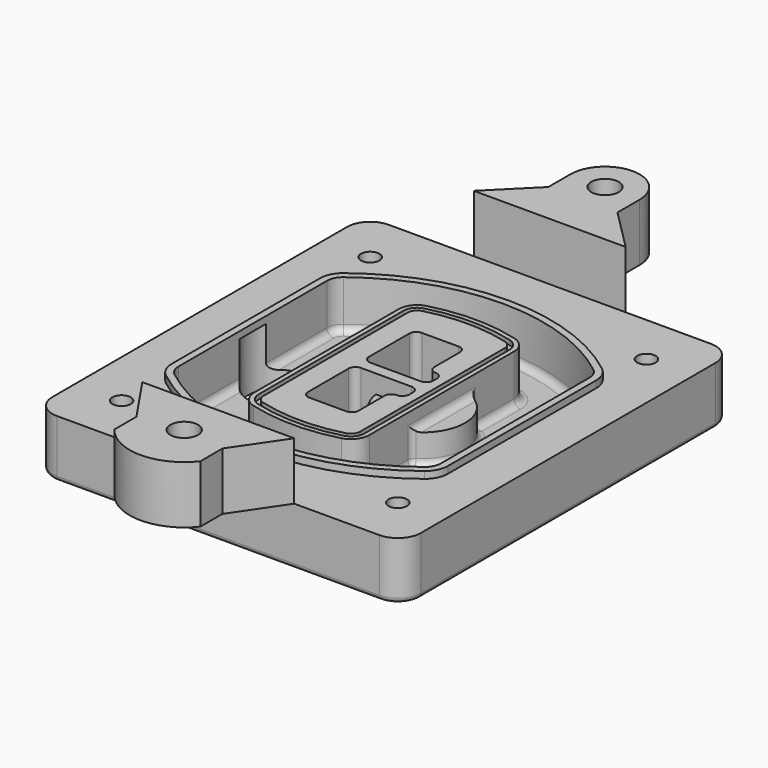
from build123d import *

# Parameters (mm, degrees)
F0_R      = 4
F1_DEPTH  = 25
F2_DEPTH  = 3
F3_DEPTH  = 18
F5_DEPTH  = 21
F6_DEPTH  = 2
F8_DEPTH  = 20
F9_DEPTH  = 16
F10_DEPTH = 25
F7_R      = 6
F7_R_2    = 4
F11_DEPTH = 6
F13_DEPTH = 9
F14_R     = 3
F15_R     = 2
F16_R     = 6
F17_DEPTH = 25


with BuildPart() as f1:
    # F0 (on Top) → F1 (new body)
    with BuildSketch(Plane.XY):
        with BuildLine():
            ThreePointArc((-80, -80), (-77.0710678119, -87.0710678119), (-70, -90))
            Line((-70, -90), (70, -90))
            ThreePointArc((70, -90), (77.0710678119, -87.0710678119), (80, -80))
            Line((80, -80), (80, 80))
            ThreePointArc((80, 80), (77.0710678119, 87.0710678119), (70, 90))
            Line((70, 90), (-70, 90))
            ThreePointArc((-70, 90), (-77.0710678119, 87.0710678119), (-80, 80))
            Line((-80, 80), (-80, -80))
        make_face()
        with Locations((-60, -67.5)):
            Circle(F0_R, mode=Mode.SUBTRACT)
        with Locations((60, -67.5)):
            Circle(F0_R, mode=Mode.SUBTRACT)
        with Locations((-60, 67.5)):
            Circle(F0_R, mode=Mode.SUBTRACT)
        with BuildLine():
            ThreePointArc((-64, 40.2934422872), (-62.5820384798, 46.4328484224), (-58.6153846154, 51.3286200352))
            ThreePointArc((-58.6153846154, 51.3286200352), (0, 71.5), (58.6153846154, 51.3286200352))
            ThreePointArc((58.6153846154, 51.3286200352), (62.5820384798, 46.4328484224), (64, 40.2934422872))
            Line((64, 40.2934422872), (64, -40.2934422872))
            ThreePointArc((64, -40.2934422872), (62.5820384798, -46.4328484224), (58.6153846154, -51.3286200352))
            ThreePointArc((58.6153846154, -51.3286200352), (0, -71.5), (-58.6153846154, -51.3286200352))
            ThreePointArc((-58.6153846154, -51.3286200352), (-62.5820384798, -46.4328484224), (-64, -40.2934422872))
            Line((-64, -40.2934422872), (-64, 40.2934422872))
        make_face(mode=Mode.SUBTRACT)
        with Locations((60, 67.5)):
            Circle(F0_R, mode=Mode.SUBTRACT)
        with BuildLine():
            ThreePointArc((58.6153846154, 51.3286200352), (0, 71.5), (-58.6153846154, 51.3286200352))
            ThreePointArc((-58.6153846154, 51.3286200352), (-62.5820384798, 46.4328484224), (-64, 40.2934422872))
            Line((-64, 40.2934422872), (-64, -40.2934422872))
            ThreePointArc((-64, -40.2934422872), (-62.5820384798, -46.4328484224), (-58.6153846154, -51.3286200352))
            ThreePointArc((-58.6153846154, -51.3286200352), (0, -71.5), (58.6153846154, -51.3286200352))
            ThreePointArc((58.6153846154, -51.3286200352), (62.5820384798, -46.4328484224), (64, -40.2934422872))
            Line((64, -40.2934422872), (64, 40.2934422872))
            ThreePointArc((64, 40.2934422872), (62.5820384798, 46.4328484224), (58.6153846154, 51.3286200352))
        make_face()
        with BuildLine():
            Line((-60, -40.2934422872), (-60, 40.2934422872))
            ThreePointArc((-60, 40.2934422872), (-58.9871703427, 44.6787323838), (-56.1538461538, 48.1757121072))
            ThreePointArc((-56.1538461538, 48.1757121072), (0, 67.5), (56.1538461538, 48.1757121072))
            ThreePointArc((56.1538461538, 48.1757121072), (58.9871703427, 44.6787323838), (60, 40.2934422872))
            Line((60, 40.2934422872), (60, -40.2934422872))
            ThreePointArc((60, -40.2934422872), (58.9871703427, -44.6787323838), (56.1538461538, -48.1757121072))
            ThreePointArc((56.1538461538, -48.1757121072), (0, -67.5), (-56.1538461538, -48.1757121072))
            ThreePointArc((-56.1538461538, -48.1757121072), (-58.9871703427, -44.6787323838), (-60, -40.2934422872))
        make_face(mode=Mode.SUBTRACT)
        with BuildLine():
            ThreePointArc((-56.1538461538, 48.1757121072), (-58.9871703427, 44.6787323838), (-60, 40.2934422872))
            Line((-60, 40.2934422872), (-60, -40.2934422872))
            ThreePointArc((-60, -40.2934422872), (-58.9871703427, -44.6787323838), (-56.1538461538, -48.1757121072))
            ThreePointArc((-56.1538461538, -48.1757121072), (0, -67.5), (56.1538461538, -48.1757121072))
            ThreePointArc((56.1538461538, -48.1757121072), (58.9871703427, -44.6787323838), (60, -40.2934422872))
            Line((60, -40.2934422872), (60, 40.2934422872))
            ThreePointArc((60, 40.2934422872), (58.9871703427, 44.6787323838), (56.1538461538, 48.1757121072))
            ThreePointArc((56.1538461538, 48.1757121072), (0, 67.5), (-56.1538461538, 48.1757121072))
        make_face()
        with BuildLine():
            ThreePointArc((54.3076923077, 45.8110311612), (56.2910192399, 43.3631453548), (57, 40.2934422872))
            Line((57, 40.2934422872), (57, -40.2934422872))
            ThreePointArc((57, -40.2934422872), (56.2910192399, -43.3631453548), (54.3076923077, -45.8110311612))
            ThreePointArc((54.3076923077, -45.8110311612), (0, -64.5), (-54.3076923077, -45.8110311612))
            ThreePointArc((-54.3076923077, -45.8110311612), (-56.2910192399, -43.3631453548), (-57, -40.2934422872))
            Line((-57, -40.2934422872), (-57, 40.2934422872))
            ThreePointArc((-57, 40.2934422872), (-56.2910192399, 43.3631453548), (-54.3076923077, 45.8110311612))
            ThreePointArc((-54.3076923077, 45.8110311612), (0, 64.5), (54.3076923077, 45.8110311612))
        make_face(mode=Mode.SUBTRACT)
        with BuildLine():
            Line((57, -40.2934422872), (57, 40.2934422872))
            ThreePointArc((57, 40.2934422872), (56.2910192399, 43.3631453548), (54.3076923077, 45.8110311612))
            ThreePointArc((54.3076923077, 45.8110311612), (0, 64.5), (-54.3076923077, 45.8110311612))
            ThreePointArc((-54.3076923077, 45.8110311612), (-56.2910192399, 43.3631453548), (-57, 40.2934422872))
            Line((-57, 40.2934422872), (-57, -40.2934422872))
            ThreePointArc((-57, -40.2934422872), (-56.2910192399, -43.3631453548), (-54.3076923077, -45.8110311612))
            ThreePointArc((-54.3076923077, -45.8110311612), (0, -64.5), (54.3076923077, -45.8110311612))
            ThreePointArc((54.3076923077, -45.8110311612), (56.2910192399, -43.3631453548), (57, -40.2934422872))
        make_face()
    extrude(amount=-F1_DEPTH)

    # F0 (on Top) → F2 (join)
    with BuildSketch(Plane.XY):
        with BuildLine():
            ThreePointArc((-56.1538461538, 48.1757121072), (-58.9871703427, 44.6787323838), (-60, 40.2934422872))
            Line((-60, 40.2934422872), (-60, -40.2934422872))
            ThreePointArc((-60, -40.2934422872), (-58.9871703427, -44.6787323838), (-56.1538461538, -48.1757121072))
            ThreePointArc((-56.1538461538, -48.1757121072), (0, -67.5), (56.1538461538, -48.1757121072))
            ThreePointArc((56.1538461538, -48.1757121072), (58.9871703427, -44.6787323838), (60, -40.2934422872))
            Line((60, -40.2934422872), (60, 40.2934422872))
            ThreePointArc((60, 40.2934422872), (58.9871703427, 44.6787323838), (56.1538461538, 48.1757121072))
            ThreePointArc((56.1538461538, 48.1757121072), (0, 67.5), (-56.1538461538, 48.1757121072))
        make_face()
        with BuildLine():
            ThreePointArc((54.3076923077, 45.8110311612), (56.2910192399, 43.3631453548), (57, 40.2934422872))
            Line((57, 40.2934422872), (57, -40.2934422872))
            ThreePointArc((57, -40.2934422872), (56.2910192399, -43.3631453548), (54.3076923077, -45.8110311612))
            ThreePointArc((54.3076923077, -45.8110311612), (0, -64.5), (-54.3076923077, -45.8110311612))
            ThreePointArc((-54.3076923077, -45.8110311612), (-56.2910192399, -43.3631453548), (-57, -40.2934422872))
            Line((-57, -40.2934422872), (-57, 40.2934422872))
            ThreePointArc((-57, 40.2934422872), (-56.2910192399, 43.3631453548), (-54.3076923077, 45.8110311612))
            ThreePointArc((-54.3076923077, 45.8110311612), (0, 64.5), (54.3076923077, 45.8110311612))
        make_face(mode=Mode.SUBTRACT)
    extrude(amount=F2_DEPTH)

    # F0 (on Top) → F3 (cut)
    with BuildSketch(Plane.XY):
        with BuildLine():
            Line((57, -40.2934422872), (57, 40.2934422872))
            ThreePointArc((57, 40.2934422872), (56.2910192399, 43.3631453548), (54.3076923077, 45.8110311612))
            ThreePointArc((54.3076923077, 45.8110311612), (0, 64.5), (-54.3076923077, 45.8110311612))
            ThreePointArc((-54.3076923077, 45.8110311612), (-56.2910192399, 43.3631453548), (-57, 40.2934422872))
            Line((-57, 40.2934422872), (-57, -40.2934422872))
            ThreePointArc((-57, -40.2934422872), (-56.2910192399, -43.3631453548), (-54.3076923077, -45.8110311612))
            ThreePointArc((-54.3076923077, -45.8110311612), (0, -64.5), (54.3076923077, -45.8110311612))
            ThreePointArc((54.3076923077, -45.8110311612), (56.2910192399, -43.3631453548), (57, -40.2934422872))
        make_face()
    extrude(amount=-F3_DEPTH, mode=Mode.SUBTRACT)

    # F4 (on face) → F5 (join, through all)
    with BuildSketch(Plane.XY.offset(3)):
        with BuildLine():
            ThreePointArc((-25, -39.2465276821), (-23.3511545998, -44.1109737193), (-19.0842911877, -46.9702398883))
            ThreePointArc((-19.0842911877, -46.9702398883), (0, -49.5), (19.0842911877, -46.9702398883))
            ThreePointArc((19.0842911877, -46.9702398883), (23.3511545998, -44.1109737193), (25, -39.2465276821))
            Line((25, -39.2465276821), (25, 39.2465276821))
            ThreePointArc((25, 39.2465276821), (23.3511545998, 44.1109737193), (19.0842911877, 46.9702398883))
            ThreePointArc((19.0842911877, 46.9702398883), (0, 49.5), (-19.0842911877, 46.9702398883))
            ThreePointArc((-19.0842911877, 46.9702398883), (-23.3511545998, 44.1109737193), (-25, 39.2465276821))
            Line((-25, 39.2465276821), (-25, -39.2465276821))
        make_face()
        with BuildLine():
            ThreePointArc((18.5632183908, 45.0393118368), (21.7633659499, 42.89486221), (23, 39.2465276821))
            Line((23, 39.2465276821), (23, -39.2465276821))
            ThreePointArc((23, -39.2465276821), (21.7633659499, -42.89486221), (18.5632183908, -45.0393118368))
            ThreePointArc((18.5632183908, -45.0393118368), (0, -47.5), (-18.5632183908, -45.0393118368))
            ThreePointArc((-18.5632183908, -45.0393118368), (-21.7633659499, -42.89486221), (-23, -39.2465276821))
            Line((-23, -39.2465276821), (-23, 39.2465276821))
            ThreePointArc((-23, 39.2465276821), (-21.7633659499, 42.89486221), (-18.5632183908, 45.0393118368))
            ThreePointArc((-18.5632183908, 45.0393118368), (0, 47.5), (18.5632183908, 45.0393118368))
        make_face(mode=Mode.SUBTRACT)
        with BuildLine():
            Line((23, -39.2465276821), (23, 39.2465276821))
            ThreePointArc((23, 39.2465276821), (21.7633659499, 42.89486221), (18.5632183908, 45.0393118368))
            ThreePointArc((18.5632183908, 45.0393118368), (0, 47.5), (-18.5632183908, 45.0393118368))
            ThreePointArc((-18.5632183908, 45.0393118368), (-21.7633659499, 42.89486221), (-23, 39.2465276821))
            Line((-23, 39.2465276821), (-23, -39.2465276821))
            ThreePointArc((-23, -39.2465276821), (-21.7633659499, -42.89486221), (-18.5632183908, -45.0393118368))
            ThreePointArc((-18.5632183908, -45.0393118368), (0, -47.5), (18.5632183908, -45.0393118368))
            ThreePointArc((18.5632183908, -45.0393118368), (21.7633659499, -42.89486221), (23, -39.2465276821))
        make_face()
        with BuildLine():
            ThreePointArc((18.0421455939, 43.1083837852), (20.1755772999, 41.6787507007), (21, 39.2465276821))
            Line((21, 39.2465276821), (21, -39.2465276821))
            ThreePointArc((21, -39.2465276821), (20.1755772999, -41.6787507007), (18.0421455939, -43.1083837852))
            ThreePointArc((18.0421455939, -43.1083837852), (0, -45.5), (-18.0421455939, -43.1083837852))
            ThreePointArc((-18.0421455939, -43.1083837852), (-20.1755772999, -41.6787507007), (-21, -39.2465276821))
            Line((-21, -39.2465276821), (-21, 39.2465276821))
            ThreePointArc((-21, 39.2465276821), (-20.1755772999, 41.6787507007), (-18.0421455939, 43.1083837852))
            ThreePointArc((-18.0421455939, 43.1083837852), (0, 45.5), (18.0421455939, 43.1083837852))
        make_face(mode=Mode.SUBTRACT)
        with BuildLine():
            Line((21, -39.2465276821), (21, 39.2465276821))
            ThreePointArc((21, 39.2465276821), (20.1755772999, 41.6787507007), (18.0421455939, 43.1083837852))
            ThreePointArc((18.0421455939, 43.1083837852), (0, 45.5), (-18.0421455939, 43.1083837852))
            ThreePointArc((-18.0421455939, 43.1083837852), (-20.1755772999, 41.6787507007), (-21, 39.2465276821))
            Line((-21, 39.2465276821), (-21, -39.2465276821))
            ThreePointArc((-21, -39.2465276821), (-20.1755772999, -41.6787507007), (-18.0421455939, -43.1083837852))
            ThreePointArc((-18.0421455939, -43.1083837852), (0, -45.5), (18.0421455939, -43.1083837852))
            ThreePointArc((18.0421455939, -43.1083837852), (20.1755772999, -41.6787507007), (21, -39.2465276821))
        make_face()
        with BuildLine():
            Line((-8, -2.5), (14, -2.5))
            ThreePointArc((14, -2.5), (16.1213203436, -3.3786796564), (17, -5.5))
            Line((17, -5.5), (17, -7.5))
            ThreePointArc((17, -7.5), (16.1213203436, -9.6213203436), (14, -10.5))
            ThreePointArc((14, -10.5), (11.8786796564, -11.3786796564), (11, -13.5))
            Line((11, -13.5), (11, -27.5))
            ThreePointArc((11, -27.5), (10.1213203436, -29.6213203436), (8, -30.5))
            Line((8, -30.5), (-8, -30.5))
            ThreePointArc((-8, -30.5), (-10.1213203436, -29.6213203436), (-11, -27.5))
            Line((-11, -27.5), (-11, -5.5))
            ThreePointArc((-11, -5.5), (-10.1213203436, -3.3786796564), (-8, -2.5))
        make_face(mode=Mode.SUBTRACT)
        with BuildLine():
            ThreePointArc((-8, 2.5), (-10.1213203436, 3.3786796564), (-11, 5.5))
            Line((-11, 5.5), (-11, 27.5))
            ThreePointArc((-11, 27.5), (-10.1213203436, 29.6213203436), (-8, 30.5))
            Line((-8, 30.5), (8, 30.5))
            ThreePointArc((8, 30.5), (10.1213203436, 29.6213203436), (11, 27.5))
            Line((11, 27.5), (11, 13.5))
            ThreePointArc((11, 13.5), (11.8786796564, 11.3786796564), (14, 10.5))
            ThreePointArc((14, 10.5), (16.1213203436, 9.6213203436), (17, 7.5))
            Line((17, 7.5), (17, 5.5))
            ThreePointArc((17, 5.5), (16.1213203436, 3.3786796564), (14, 2.5))
            Line((14, 2.5), (-8, 2.5))
        make_face(mode=Mode.SUBTRACT)
    extrude(amount=-F5_DEPTH)

    # F4 (on face) → F6 (cut)
    with BuildSketch(Plane.XY.offset(3)):
        with BuildLine():
            Line((23, -39.2465276821), (23, 39.2465276821))
            ThreePointArc((23, 39.2465276821), (21.7633659499, 42.89486221), (18.5632183908, 45.0393118368))
            ThreePointArc((18.5632183908, 45.0393118368), (0, 47.5), (-18.5632183908, 45.0393118368))
            ThreePointArc((-18.5632183908, 45.0393118368), (-21.7633659499, 42.89486221), (-23, 39.2465276821))
            Line((-23, 39.2465276821), (-23, -39.2465276821))
            ThreePointArc((-23, -39.2465276821), (-21.7633659499, -42.89486221), (-18.5632183908, -45.0393118368))
            ThreePointArc((-18.5632183908, -45.0393118368), (0, -47.5), (18.5632183908, -45.0393118368))
            ThreePointArc((18.5632183908, -45.0393118368), (21.7633659499, -42.89486221), (23, -39.2465276821))
        make_face()
        with BuildLine():
            ThreePointArc((18.0421455939, 43.1083837852), (20.1755772999, 41.6787507007), (21, 39.2465276821))
            Line((21, 39.2465276821), (21, -39.2465276821))
            ThreePointArc((21, -39.2465276821), (20.1755772999, -41.6787507007), (18.0421455939, -43.1083837852))
            ThreePointArc((18.0421455939, -43.1083837852), (0, -45.5), (-18.0421455939, -43.1083837852))
            ThreePointArc((-18.0421455939, -43.1083837852), (-20.1755772999, -41.6787507007), (-21, -39.2465276821))
            Line((-21, -39.2465276821), (-21, 39.2465276821))
            ThreePointArc((-21, 39.2465276821), (-20.1755772999, 41.6787507007), (-18.0421455939, 43.1083837852))
            ThreePointArc((-18.0421455939, 43.1083837852), (0, 45.5), (18.0421455939, 43.1083837852))
        make_face(mode=Mode.SUBTRACT)
    extrude(amount=-F6_DEPTH, mode=Mode.SUBTRACT)

    # F7 (on face) → F8 (join)
    with BuildSketch(Plane(origin=(0, 0, -25), x_dir=(1, 0, 0), z_dir=(0, 0, -1))):
        with BuildLine():
            ThreePointArc((3.28842436, 0), (16.7567035675, 13.4682792075), (30.224982775, 0))
            Line((30.224982775, 0), (35.224982775, 0))
            ThreePointArc((35.224982775, 0), (16.7567035675, 18.4682792075), (-1.71157564, 0))
            Line((-1.71157564, 0), (3.28842436, 0))
        make_face()
        with BuildLine():
            Line((3.28842436, 0), (30.224982775, 0))
            ThreePointArc((30.224982775, 0), (16.7567035675, 13.4682792075), (3.28842436, 0))
        make_face()
        with BuildLine():
            ThreePointArc((3.28842436, 0), (16.7567035675, -13.4682792075), (30.224982775, 0))
            Line((30.224982775, 0), (3.28842436, 0))
        make_face()
        with BuildLine():
            Line((35.224982775, 0), (30.224982775, 0))
            ThreePointArc((30.224982775, 0), (16.7567035675, -13.4682792075), (3.28842436, 0))
            Line((3.28842436, 0), (-1.71157564, 0))
            ThreePointArc((-1.71157564, 0), (16.7567035675, -18.4682792075), (35.224982775, 0))
        make_face()
    extrude(amount=-F8_DEPTH)

    # F7 (on face) → F9 (cut)
    with BuildSketch(Plane(origin=(0, 0, -25), x_dir=(1, 0, 0), z_dir=(0, 0, -1))):
        with BuildLine():
            Line((3.28842436, 0), (30.224982775, 0))
            ThreePointArc((30.224982775, 0), (16.7567035675, 13.4682792075), (3.28842436, 0))
        make_face()
        with BuildLine():
            ThreePointArc((3.28842436, 0), (16.7567035675, -13.4682792075), (30.224982775, 0))
            Line((30.224982775, 0), (3.28842436, 0))
        make_face()
    extrude(amount=-F9_DEPTH, mode=Mode.SUBTRACT)

    # F7 (on face) → F10 (cut)
    with BuildSketch(Plane(origin=(0, 0, -25), x_dir=(1, 0, 0), z_dir=(0, 0, -1))):
        with BuildLine():
            Line((-59.0318229325, 0), (-32.0952645175, 0))
            ThreePointArc((-32.0952645175, 0), (-45.563543725, 13.4682792075), (-59.0318229325, 0))
        make_face()
        with BuildLine():
            ThreePointArc((-59.0318229325, 0), (-45.563543725, -13.4682792075), (-32.0952645175, 0))
            Line((-32.0952645175, 0), (-59.0318229325, 0))
        make_face()
    extrude(amount=-F10_DEPTH, mode=Mode.SUBTRACT)

    # F7 (on face) → F11 (cut)
    with BuildSketch(Plane(origin=(0, 0, -25), x_dir=(1, 0, 0), z_dir=(0, 0, -1))):
        with Locations((60, -67.5)):
            Circle(F7_R)
        with Locations((60, -67.5)):
            Circle(F7_R_2, mode=Mode.SUBTRACT)
        with Locations((60, -67.5)):
            Circle(F7_R)
        with Locations((60, -67.5)):
            Circle(F7_R_2, mode=Mode.SUBTRACT)
        with Locations((-60, -67.5)):
            Circle(F7_R)
        with Locations((-60, -67.5)):
            Circle(F7_R_2, mode=Mode.SUBTRACT)
        with Locations((-60, -67.5)):
            Circle(F7_R)
        with Locations((-60, -67.5)):
            Circle(F7_R_2, mode=Mode.SUBTRACT)
        with Locations((-60, 67.5)):
            Circle(F7_R)
        with Locations((-60, 67.5)):
            Circle(F7_R_2, mode=Mode.SUBTRACT)
        with Locations((-60, 67.5)):
            Circle(F7_R)
        with Locations((-60, 67.5)):
            Circle(F7_R_2, mode=Mode.SUBTRACT)
        with Locations((60, 67.5)):
            Circle(F7_R)
        with Locations((60, 67.5)):
            Circle(F7_R_2, mode=Mode.SUBTRACT)
        with Locations((60, 67.5)):
            Circle(F7_R)
        with Locations((60, 67.5)):
            Circle(F7_R_2, mode=Mode.SUBTRACT)
    extrude(amount=-F11_DEPTH, mode=Mode.SUBTRACT)

    # F12 (on face) → F13 (cut, through all)
    with BuildSketch(Plane(origin=(0, 0, -9), x_dir=(1, 0, 0), z_dir=(0, 0, -1))):
        with BuildLine():
            Line((11, 13.5), (11, 17.5481537753))
            ThreePointArc((11, 17.5481537753), (2.5696536419, 11.8239143813), (-1.5415842455, 2.5))
            Line((-1.5415842455, 2.5), (3.5224848595, 2.5))
            ThreePointArc((3.5224848595, 2.5), (6.1857188154, 8.3455872281), (11.2536447004, 12.2927168648))
            ThreePointArc((11.2536447004, 12.2927168648), (11.0640958889, 12.8831798879), (11, 13.5))
        make_face()
        with BuildLine():
            ThreePointArc((11.2536447004, -12.2927168648), (6.1857188154, -8.3455872281), (3.5224848595, -2.5))
            Line((3.5224848595, -2.5), (-1.5415842455, -2.5))
            ThreePointArc((-1.5415842455, -2.5), (2.5696536419, -11.8239143813), (11, -17.5481537753))
            Line((11, -17.5481537753), (11, -13.5))
            ThreePointArc((11, -13.5), (11.0640958889, -12.8831798879), (11.2536447004, -12.2927168648))
        make_face()
        with BuildLine():
            ThreePointArc((11.2536447004, 12.2927168648), (6.1857188154, 8.3455872281), (3.5224848595, 2.5))
            Line((3.5224848595, 2.5), (14, 2.5))
            ThreePointArc((14, 2.5), (16.1213203436, 3.3786796564), (17, 5.5))
            Line((17, 5.5), (17, 7.5))
            ThreePointArc((17, 7.5), (16.1213203436, 9.6213203436), (14, 10.5))
            ThreePointArc((14, 10.5), (12.3601599782, 10.9878446101), (11.2536447004, 12.2927168648))
        make_face()
        with BuildLine():
            Line((14, -2.5), (3.5224848595, -2.5))
            ThreePointArc((3.5224848595, -2.5), (6.1857188154, -8.3455872281), (11.2536447004, -12.2927168648))
            ThreePointArc((11.2536447004, -12.2927168648), (12.3601599782, -10.9878446101), (14, -10.5))
            ThreePointArc((14, -10.5), (16.1213203436, -9.6213203436), (17, -7.5))
            Line((17, -7.5), (17, -5.5))
            ThreePointArc((17, -5.5), (16.1213203436, -3.3786796564), (14, -2.5))
        make_face()
    extrude(amount=F13_DEPTH, mode=Mode.SUBTRACT)

    # F14
    f14_edges = [f1.edges().sort_by_distance(p)[0] for p in [
        (-57, -23.703476, -18),
        (-57, 23.703476, -18),
        (25, 0, -5),
        (25, 16.526506, -11.5),
        (25, -16.526506, -11.5),
        (25, -27.886517, -18),
        (35.224983, 0, -18),
    ]]
    fillet(f14_edges, radius=F14_R)

    # F15
    f15_edges = [f1.edges().sort_by_distance(p)[0] for p in [
        (0, -90, -25),
    ]]
    fillet(f15_edges, radius=F15_R)


with BuildPart() as f17:
    # F16 (on face) → F17 (new body)
    with BuildSketch(Plane.XY):
        with BuildLine():
            Line((-15, 108), (-33, 90))
            Line((-33, 90), (33, 90))
            Line((33, 90), (15, 108))
            Line((15, 108), (15, 120))
            ThreePointArc((15, 120), (0, 135), (-15, 120))
            Line((-15, 120), (-15, 108))
        make_face()
        with Locations((0, 120)):
            Circle(F16_R, mode=Mode.SUBTRACT)
    extrude(amount=F17_DEPTH)


with BuildPart() as f17b:
    # F16 (on face) → F17, piece 2 (new body)
    with BuildSketch(Plane.XY):
        with BuildLine():
            Line((33, -90), (-33, -90))
            Line((-33, -90), (-18.6862971779, -111.0503660662))
            Line((-18.6862971779, -111.0503660662), (-18.6862971779, -123.0503660662))
            ThreePointArc((-18.6862971779, -123.0503660662), (0, -132.1749355852), (18.6862971779, -123.0503660662))
            Line((18.6862971779, -123.0503660662), (18.6862971779, -111.0503660662))
            Line((18.6862971779, -111.0503660662), (33, -90))
        make_face()
        with Locations((0, -108.4787233842)):
            Circle(F16_R, mode=Mode.SUBTRACT)
    extrude(amount=F17_DEPTH)


solid = Compound([f1.part, f17.part, f17b.part])
